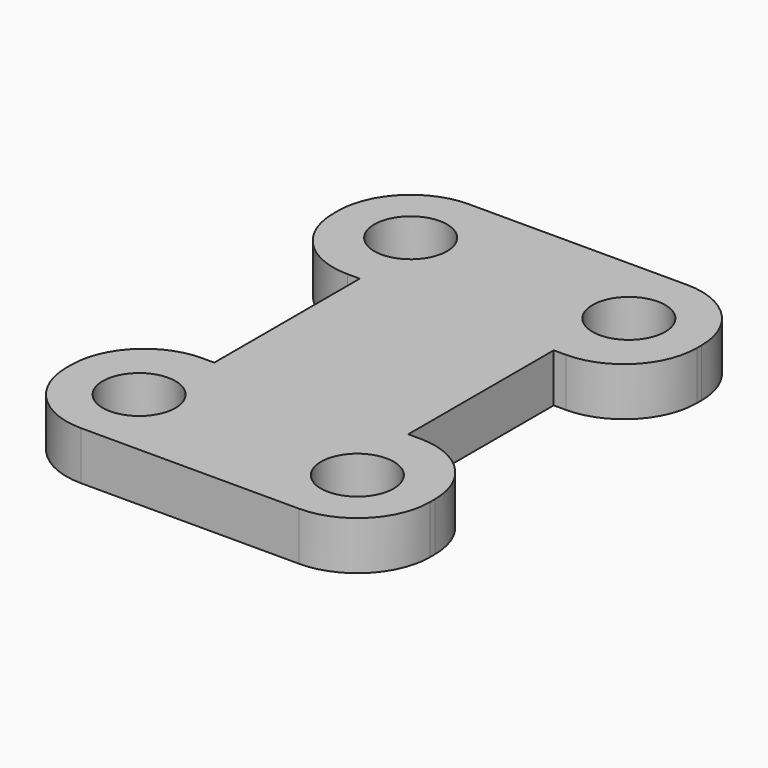
from build123d import *

# Parameters (mm, degrees)
CYLINDER713_R     = 1.5
CYLINDER713_DEPTH = 14
CYLINDER710_R     = 1.5
CYLINDER710_DEPTH = 14
CYLINDER711_R     = 1.5
CYLINDER711_DEPTH = 14
CYLINDER712_R     = 1.5
CYLINDER712_DEPTH = 14
BOX045_W          = 15
BOX045_H          = 7.5
BOX045_DEPTH      = 2
BOX044_W          = 15
BOX044_H          = 20
BOX044_DEPTH      = 2
FILLET001008_R    = 3
BOX046_W          = 8
BOX046_H          = 9
BOX046_DEPTH      = 2


with BuildPart() as cylinder783:
    # Cylinder713 → Cylinder713 (new body)
    with BuildSketch(Plane(origin=(-4.5, -50.5, -7), x_dir=(1, 0, 0), z_dir=(0, 0, 1))):
        Circle(CYLINDER713_R)
    extrude(amount=CYLINDER713_DEPTH)


with BuildPart() as fusion001005002004004005002010_body:
    # Cylinder710 → Cylinder710 (new body)
    with BuildSketch(Plane(origin=(4.5, -50.5, -7), x_dir=(1, 0, 0), z_dir=(0, 0, 1))):
        Circle(CYLINDER710_R)
    extrude(amount=CYLINDER710_DEPTH)

    # Fusion001005002004004005002010002003003003017007024017: union Cylinder783
    add(cylinder783.part)


with BuildPart() as fusion001005002004004005002010_body_1:
    # Fusion001005002004004005002010002003003003017007024017 placement: moved
    add(fusion001005002004004005002010_body.part.moved(Location((0, 4, -3))))


with BuildPart() as cylinder781:
    # Cylinder711 → Cylinder711 (new body)
    with BuildSketch(Plane(origin=(-4.5, -50.5, -7), x_dir=(1, 0, 0), z_dir=(0, 0, 1))):
        Circle(CYLINDER711_R)
    extrude(amount=CYLINDER711_DEPTH)


with BuildPart() as fusion001005002004004005002010_body2:
    # Cylinder712 → Cylinder712 (new body)
    with BuildSketch(Plane(origin=(4.5, -50.5, -7), x_dir=(1, 0, 0), z_dir=(0, 0, 1))):
        Circle(CYLINDER712_R)
    extrude(amount=CYLINDER712_DEPTH)

    # Fusion001005002004004005002010002003003003017007024018: union Cylinder781
    add(cylinder781.part)


with BuildPart() as fusion001005002004004005002010_body2_1:
    # Fusion001005002004004005002010002003003003017007024018 placement: moved
    add(fusion001005002004004005002010_body2.part.moved(Location((0, 18, -3))))

    # Fusion001005002004004005002010002003003003017007024019: union Fusion001005002004004005002010 body
    add(fusion001005002004004005002010_body_1.part)


with BuildPart() as cube045:
    # Box045 → Box045 (new body)
    with BuildSketch(Plane(origin=(-7.5, -43.25, -11), x_dir=(1, 0, 0), z_dir=(0, 0, 1))):
        with Locations((7.5, 3.75)):
            Rectangle(BOX045_W, BOX045_H)
    extrude(amount=BOX045_DEPTH)


with BuildPart() as fillet001008:
    # Box044 → Box044 (new body)
    with BuildSketch(Plane(origin=(-7.5, -49.5, -11), x_dir=(1, 0, 0), z_dir=(0, 0, 1))):
        with Locations((7.5, 10)):
            Rectangle(BOX044_W, BOX044_H)
    extrude(amount=BOX044_DEPTH)

    # Cut012030: cut Cube045
    add(cube045.part, mode=Mode.SUBTRACT)

    # Fillet001008
    fillet001008_edges = [fillet001008.edges().sort_by_distance(p)[0] for p in [
        (-7.5, -43.25, -10),
        (-7.5, -49.5, -10),
        (7.5, -43.25, -10),
        (7.5, -49.5, -10),
        (-7.5, -29.5, -10),
        (-7.5, -35.75, -10),
        (7.5, -29.5, -10),
        (7.5, -35.75, -10),
    ]]
    fillet(fillet001008_edges, radius=FILLET001008_R)


with BuildPart() as obj1:
    # Box046 → Box046 (new body)
    with BuildSketch(Plane(origin=(-4, -44, -11), x_dir=(1, 0, 0), z_dir=(0, 0, 1))):
        with Locations((4, 4.5)):
            Rectangle(BOX046_W, BOX046_H)
    extrude(amount=BOX046_DEPTH)

    # Fusion001005002004004005002010002003003003017007024016: union Fillet001008
    add(fillet001008.part)


with BuildPart() as obj1_1:
    # Fusion001005002004004005002010002003003003017007024016 placement: moved
    add(obj1.part.moved(Location((0, 0, 1))))

    # Cut012031: cut Fusion001005002004004005002010 body2
    add(fusion001005002004004005002010_body2_1.part, mode=Mode.SUBTRACT)


with BuildPart() as obj1_2:
    # Cut012031 placement: moved
    add(obj1_1.part.moved(Location((0, 63, 0))))


solid = obj1_2.part
